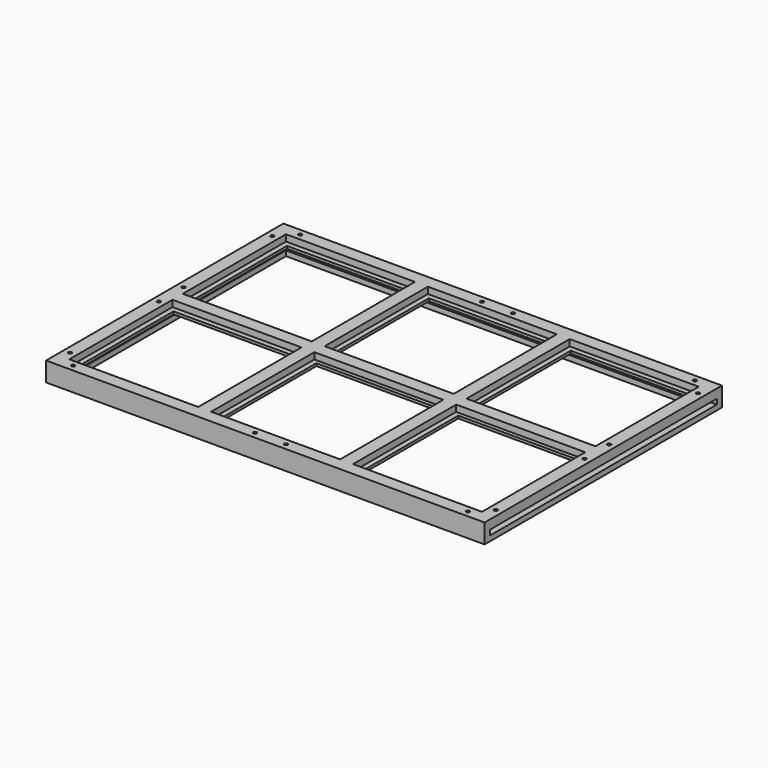
from build123d import *

# Parameters (mm, degrees)
CYLINDER050_R     = 1.3
CYLINDER050_DEPTH = 146
CYLINDER049_R     = 1.3
CYLINDER049_DEPTH = 146
CYLINDER042_R     = 1.3
CYLINDER042_DEPTH = 146
CYLINDER041_R     = 1.3
CYLINDER041_DEPTH = 146
CYLINDER038_R     = 1.3
CYLINDER038_DEPTH = 146
CYLINDER037_R     = 1.3
CYLINDER037_DEPTH = 146
CYLINDER035_R     = 1.3
CYLINDER035_DEPTH = 146
CYLINDER033_R     = 1.3
CYLINDER033_DEPTH = 146
CYLINDER031_R     = 1.3
CYLINDER031_DEPTH = 146
CYLINDER029_R     = 1.3
CYLINDER029_DEPTH = 146
CYLINDER016_R     = 1.3
CYLINDER016_DEPTH = 146
CYLINDER015_R     = 1.3
CYLINDER015_DEPTH = 146
CYLINDER006_R     = 1.3
CYLINDER006_DEPTH = 146
CYLINDER007_R     = 1.3
CYLINDER007_DEPTH = 146
CYLINDER003_R     = 1.3
CYLINDER003_DEPTH = 146
CYLINDER005_R     = 1.3
CYLINDER005_DEPTH = 146
BOX021_W          = 92
BOX021_H          = 92
BOX021_DEPTH      = 24
BOX020_W          = 92
BOX020_H          = 92
BOX020_DEPTH      = 24
BOX019_W          = 92
BOX019_H          = 92
BOX019_DEPTH      = 24
BOX018_W          = 92
BOX018_H          = 92
BOX018_DEPTH      = 24
BOX017_W          = 92
BOX017_H          = 92
BOX017_DEPTH      = 24
BOX013_W          = 92
BOX013_H          = 92
BOX013_DEPTH      = 24
BOX004_W          = 320
BOX004_H          = 210
BOX004_DEPTH      = 2
BOX015_W          = 335
BOX015_H          = 220
BOX015_DEPTH      = 4
BOX012_W          = 10
BOX012_H          = 210
BOX012_DEPTH      = 7
BOX006_W          = 340
BOX006_H          = 10
BOX006_DEPTH      = 7
BOX003_W          = 10
BOX003_H          = 210
BOX003_DEPTH      = 15
BOX002_W          = 10
BOX002_H          = 210
BOX002_DEPTH      = 15
BOX001_W          = 340
BOX001_H          = 10
BOX001_DEPTH      = 15
BOX_W             = 340
BOX_H             = 10
BOX_DEPTH         = 15
BOX011_W          = 10
BOX011_H          = 210
BOX011_DEPTH      = 7


with BuildPart() as cilindro050:
    # Cylinder050 → Cylinder050 (new body)
    with BuildSketch(Plane(origin=(5, 103, 8), x_dir=(1, 0, 0), z_dir=(0, 0, 1))):
        Circle(CYLINDER050_R)
    extrude(amount=CYLINDER050_DEPTH)


with BuildPart() as cilindro049:
    # Cylinder049 → Cylinder049 (new body)
    with BuildSketch(Plane(origin=(5, 127, 8), x_dir=(1, 0, 0), z_dir=(0, 0, 1))):
        Circle(CYLINDER049_R)
    extrude(amount=CYLINDER049_DEPTH)


with BuildPart() as cilindro042:
    # Cylinder042 → Cylinder042 (new body)
    with BuildSketch(Plane(origin=(5, 213, 8), x_dir=(1, 0, 0), z_dir=(0, 0, 1))):
        Circle(CYLINDER042_R)
    extrude(amount=CYLINDER042_DEPTH)


with BuildPart() as cilindro041:
    # Cylinder041 → Cylinder041 (new body)
    with BuildSketch(Plane(origin=(17, 225, 8), x_dir=(1, 0, 0), z_dir=(0, 0, 1))):
        Circle(CYLINDER041_R)
    extrude(amount=CYLINDER041_DEPTH)


with BuildPart() as cilindro038:
    # Cylinder038 → Cylinder038 (new body)
    with BuildSketch(Plane(origin=(158, 225, 8), x_dir=(1, 0, 0), z_dir=(0, 0, 1))):
        Circle(CYLINDER038_R)
    extrude(amount=CYLINDER038_DEPTH)


with BuildPart() as cilindro037:
    # Cylinder037 → Cylinder037 (new body)
    with BuildSketch(Plane(origin=(182, 225, 8), x_dir=(1, 0, 0), z_dir=(0, 0, 1))):
        Circle(CYLINDER037_R)
    extrude(amount=CYLINDER037_DEPTH)


with BuildPart() as cilindro035:
    # Cylinder035 → Cylinder035 (new body)
    with BuildSketch(Plane(origin=(323, 225, 8), x_dir=(1, 0, 0), z_dir=(0, 0, 1))):
        Circle(CYLINDER035_R)
    extrude(amount=CYLINDER035_DEPTH)


with BuildPart() as cilindro033:
    # Cylinder033 → Cylinder033 (new body)
    with BuildSketch(Plane(origin=(335, 213, 8), x_dir=(1, 0, 0), z_dir=(0, 0, 1))):
        Circle(CYLINDER033_R)
    extrude(amount=CYLINDER033_DEPTH)


with BuildPart() as cilindro031:
    # Cylinder031 → Cylinder031 (new body)
    with BuildSketch(Plane(origin=(335, 127, 8), x_dir=(1, 0, 0), z_dir=(0, 0, 1))):
        Circle(CYLINDER031_R)
    extrude(amount=CYLINDER031_DEPTH)


with BuildPart() as cilindro029:
    # Cylinder029 → Cylinder029 (new body)
    with BuildSketch(Plane(origin=(335, 103, 8), x_dir=(1, 0, 0), z_dir=(0, 0, 1))):
        Circle(CYLINDER029_R)
    extrude(amount=CYLINDER029_DEPTH)


with BuildPart() as cilindro016:
    # Cylinder016 → Cylinder016 (new body)
    with BuildSketch(Plane(origin=(335, 17, 8), x_dir=(1, 0, 0), z_dir=(0, 0, 1))):
        Circle(CYLINDER016_R)
    extrude(amount=CYLINDER016_DEPTH)


with BuildPart() as cilindro015:
    # Cylinder015 → Cylinder015 (new body)
    with BuildSketch(Plane(origin=(323, 5, 8), x_dir=(1, 0, 0), z_dir=(0, 0, 1))):
        Circle(CYLINDER015_R)
    extrude(amount=CYLINDER015_DEPTH)


with BuildPart() as cilindro006:
    # Cylinder006 → Cylinder006 (new body)
    with BuildSketch(Plane(origin=(182, 5, 8), x_dir=(1, 0, 0), z_dir=(0, 0, 1))):
        Circle(CYLINDER006_R)
    extrude(amount=CYLINDER006_DEPTH)


with BuildPart() as cilindro007:
    # Cylinder007 → Cylinder007 (new body)
    with BuildSketch(Plane(origin=(158, 5, 8), x_dir=(1, 0, 0), z_dir=(0, 0, 1))):
        Circle(CYLINDER007_R)
    extrude(amount=CYLINDER007_DEPTH)


with BuildPart() as cilindro003:
    # Cylinder003 → Cylinder003 (new body)
    with BuildSketch(Plane(origin=(17, 5, 8), x_dir=(1, 0, 0), z_dir=(0, 0, 1))):
        Circle(CYLINDER003_R)
    extrude(amount=CYLINDER003_DEPTH)


with BuildPart() as cilindro005:
    # Cylinder005 → Cylinder005 (new body)
    with BuildSketch(Plane(origin=(5, 17, 8), x_dir=(1, 0, 0), z_dir=(0, 0, 1))):
        Circle(CYLINDER005_R)
    extrude(amount=CYLINDER005_DEPTH)


with BuildPart() as obj1:
    # Box021 → Box021 (new body)
    with BuildSketch(Plane(origin=(14, 124, 0), x_dir=(1, 0, 0), z_dir=(0, 0, 1))):
        with Locations((46, 46)):
            Rectangle(BOX021_W, BOX021_H)
    extrude(amount=BOX021_DEPTH)


with BuildPart() as obj2:
    # Box020 → Box020 (new body)
    with BuildSketch(Plane(origin=(124, 124, 0), x_dir=(1, 0, 0), z_dir=(0, 0, 1))):
        with Locations((46, 46)):
            Rectangle(BOX020_W, BOX020_H)
    extrude(amount=BOX020_DEPTH)


with BuildPart() as obj3:
    # Box019 → Box019 (new body)
    with BuildSketch(Plane(origin=(234, 124, 0), x_dir=(1, 0, 0), z_dir=(0, 0, 1))):
        with Locations((46, 46)):
            Rectangle(BOX019_W, BOX019_H)
    extrude(amount=BOX019_DEPTH)


with BuildPart() as obj4:
    # Box018 → Box018 (new body)
    with BuildSketch(Plane(origin=(234, 15, 0), x_dir=(1, 0, 0), z_dir=(0, 0, 1))):
        with Locations((46, 46)):
            Rectangle(BOX018_W, BOX018_H)
    extrude(amount=BOX018_DEPTH)


with BuildPart() as obj5:
    # Box017 → Box017 (new body)
    with BuildSketch(Plane(origin=(124, 15, 0), x_dir=(1, 0, 0), z_dir=(0, 0, 1))):
        with Locations((46, 46)):
            Rectangle(BOX017_W, BOX017_H)
    extrude(amount=BOX017_DEPTH)


with BuildPart() as obj6:
    # Box013 → Box013 (new body)
    with BuildSketch(Plane(origin=(14, 14, 0), x_dir=(1, 0, 0), z_dir=(0, 0, 1))):
        with Locations((46, 46)):
            Rectangle(BOX013_W, BOX013_H)
    extrude(amount=BOX013_DEPTH)


with BuildPart() as obj7:
    # Box004 → Box004 (new body)
    with BuildSketch(Plane(origin=(10, 10, 8), x_dir=(1, 0, 0), z_dir=(0, 0, 1))):
        with Locations((160, 105)):
            Rectangle(BOX004_W, BOX004_H)
    extrude(amount=BOX004_DEPTH)


with BuildPart() as obj8:
    # Box015 → Box015 (new body)
    with BuildSketch(Plane(origin=(5, 5, 4), x_dir=(1, 0, 0), z_dir=(0, 0, 1))):
        with Locations((167.5, 110)):
            Rectangle(BOX015_W, BOX015_H)
    extrude(amount=BOX015_DEPTH)


with BuildPart() as obj9:
    # Box012 → Box012 (new body)
    with BuildSketch(Plane(origin=(220, 10, 8), x_dir=(1, 0, 0), z_dir=(0, 0, 1))):
        with Locations((5, 105)):
            Rectangle(BOX012_W, BOX012_H)
    extrude(amount=BOX012_DEPTH)


with BuildPart() as base003:
    # Box006 → Box006 (new body)
    with BuildSketch(Plane(origin=(0, 110, 8), x_dir=(1, 0, 0), z_dir=(0, 0, 1))):
        with Locations((170, 5)):
            Rectangle(BOX006_W, BOX006_H)
    extrude(amount=BOX006_DEPTH)


with BuildPart() as obj10:
    # Box003 → Box003 (new body)
    with BuildSketch(Plane(origin=(330, 10, 0), x_dir=(1, 0, 0), z_dir=(0, 0, 1))):
        with Locations((5, 105)):
            Rectangle(BOX003_W, BOX003_H)
    extrude(amount=BOX003_DEPTH)


with BuildPart() as obj11:
    # Box002 → Box002 (new body)
    with BuildSketch(Plane(origin=(0, 10, 0), x_dir=(1, 0, 0), z_dir=(0, 0, 1))):
        with Locations((5, 105)):
            Rectangle(BOX002_W, BOX002_H)
    extrude(amount=BOX002_DEPTH)


with BuildPart() as base2:
    # Box001 → Box001 (new body)
    with BuildSketch(Plane(origin=(0, 220, 0), x_dir=(1, 0, 0), z_dir=(0, 0, 1))):
        with Locations((170, 5)):
            Rectangle(BOX001_W, BOX001_H)
    extrude(amount=BOX001_DEPTH)


with BuildPart() as base1:
    # Box → Box (new body)
    with BuildSketch(Plane.XY):
        with Locations((170, 5)):
            Rectangle(BOX_W, BOX_H)
    extrude(amount=BOX_DEPTH)


with BuildPart() as cut065:
    # Box011 → Box011 (new body)
    with BuildSketch(Plane(origin=(110, 10, 8), x_dir=(1, 0, 0), z_dir=(0, 0, 1))):
        with Locations((5, 105)):
            Rectangle(BOX011_W, BOX011_H)
    extrude(amount=BOX011_DEPTH)

    # Fusion: union obj9, base003, obj10, obj11, base2, base1
    add(obj9.part)
    add(base003.part)
    add(obj10.part)
    add(obj11.part)
    add(base2.part)
    add(base1.part)

    # Cut: cut obj8
    add(obj8.part, mode=Mode.SUBTRACT)

    # Fusion001: union obj7
    add(obj7.part)

    # Cut001: cut obj6
    add(obj6.part, mode=Mode.SUBTRACT)

    # Cut002: cut obj5
    add(obj5.part, mode=Mode.SUBTRACT)

    # Cut003: cut obj4
    add(obj4.part, mode=Mode.SUBTRACT)

    # Cut004: cut obj3
    add(obj3.part, mode=Mode.SUBTRACT)

    # Cut005: cut obj2
    add(obj2.part, mode=Mode.SUBTRACT)

    # Cut006: cut obj1
    add(obj1.part, mode=Mode.SUBTRACT)

    # Cut019: cut Cilindro005
    add(cilindro005.part, mode=Mode.SUBTRACT)

    # Cut020: cut Cilindro003
    add(cilindro003.part, mode=Mode.SUBTRACT)

    # Cut021: cut Cilindro007
    add(cilindro007.part, mode=Mode.SUBTRACT)

    # Cut024: cut Cilindro006
    add(cilindro006.part, mode=Mode.SUBTRACT)

    # Cut030: cut Cilindro015
    add(cilindro015.part, mode=Mode.SUBTRACT)

    # Cut031: cut Cilindro016
    add(cilindro016.part, mode=Mode.SUBTRACT)

    # Cut044: cut Cilindro029
    add(cilindro029.part, mode=Mode.SUBTRACT)

    # Cut046: cut Cilindro031
    add(cilindro031.part, mode=Mode.SUBTRACT)

    # Cut048: cut Cilindro033
    add(cilindro033.part, mode=Mode.SUBTRACT)

    # Cut050: cut Cilindro035
    add(cilindro035.part, mode=Mode.SUBTRACT)

    # Cut052: cut Cilindro037
    add(cilindro037.part, mode=Mode.SUBTRACT)

    # Cut053: cut Cilindro038
    add(cilindro038.part, mode=Mode.SUBTRACT)

    # Cut056: cut Cilindro041
    add(cilindro041.part, mode=Mode.SUBTRACT)

    # Cut057: cut Cilindro042
    add(cilindro042.part, mode=Mode.SUBTRACT)

    # Cut064: cut Cilindro049
    add(cilindro049.part, mode=Mode.SUBTRACT)

    # Cut065: cut Cilindro050
    add(cilindro050.part, mode=Mode.SUBTRACT)


solid = cut065.part
